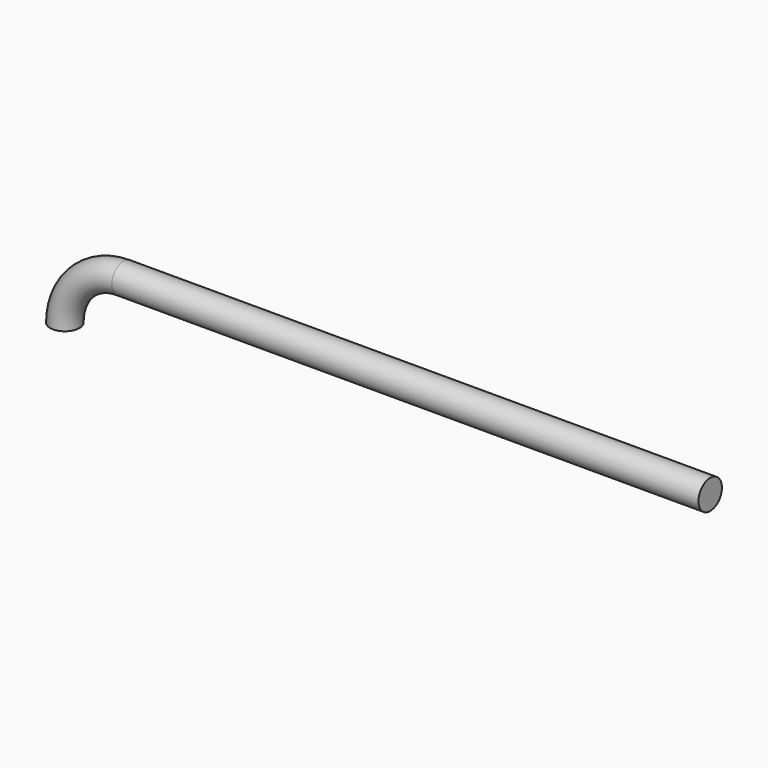
from build123d import *

# Parameters (mm, degrees)
TORUS_R                = 0.25
TORUS_ANGLE            = 90
CYLINDER_R             = 0.25
CYLINDER_DEPTH         = 10
FUSION_PITCH_ANGLE     = -90
FUSION_PLACEMENT_ANGLE = 90


with BuildPart() as torus:
    # Torus → Torus (revolve)
    with BuildSketch(Plane.XZ):
        with Locations((1, 0)):
            Circle(TORUS_R)
    revolve(axis=Axis((0, 0, 0), (0, 0, 1)), revolution_arc=TORUS_ANGLE)


with BuildPart() as fusion:
    # Cylinder → Cylinder (new body)
    with BuildSketch(Plane(origin=(1, 0, 0), x_dir=(1, 0, 0), z_dir=(0, -1, 0))):
        Circle(CYLINDER_R)
    extrude(amount=CYLINDER_DEPTH)

    # Fusion: union Torus
    add(torus.part)


with BuildPart() as fusion_1:
    # Fusion pitch: moved
    add(fusion.part.rotate(Axis((0, 0, 0), (0, 1, 0)), FUSION_PITCH_ANGLE))


with BuildPart() as fusion_2:
    # Fusion placement: moved
    add(fusion_1.part.moved(Location((31, 0, 0))).rotate(Axis((31, 0, 0), (0, 0, 1)), FUSION_PLACEMENT_ANGLE))


solid = fusion_2.part
